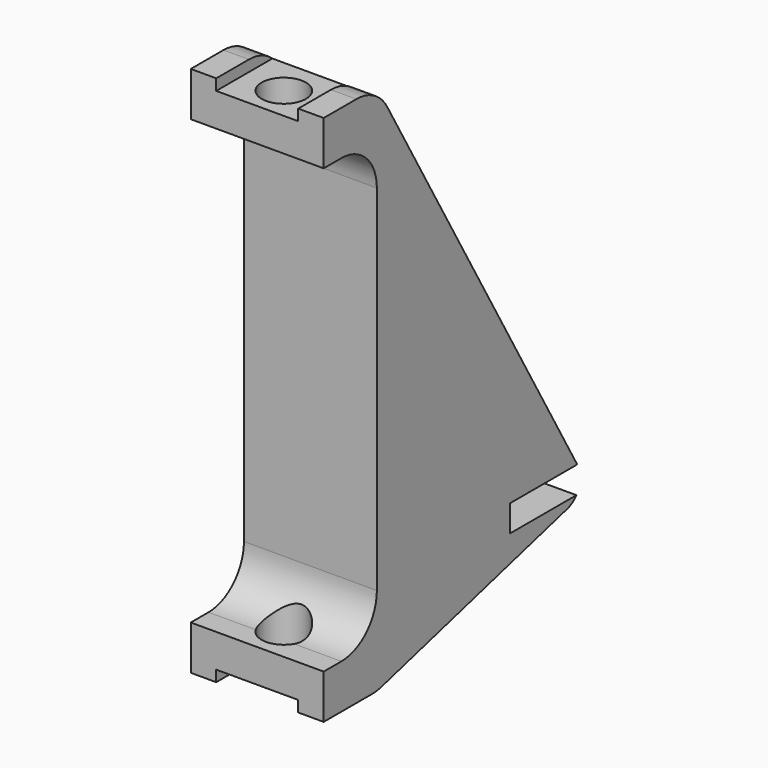
from build123d import *

# Parameters (mm, degrees)
F1_DEPTH      = 19.05
F3_D          = 6.35
F4_W          = 1.5875
F4_H          = 35.8877405588
F5_DEPTH      = 25.4
F5_DEPTH_BACK = 1.27
F6_R          = 15.875
F7_DEPTH      = 3.81
F8_W          = 11.7475
F8_H          = 3.175
F9_DEPTH      = 25.4
F10_W         = 11.7475
F10_H         = 3.175
F11_DEPTH     = 25.4


with BuildPart() as f1:
    # F0 (on Right) → F1 (new body)
    with BuildSketch(Plane.YZ):
        with BuildLine():
            ThreePointArc((-3.9967504682, -1.0709260603), (-1.8851834207, 0.7808685404), (-2.0688702794, 3.5833884382))
            Line((-2.0688702794, 3.5833884382), (-36.2669128953, 62.8161357684))
            ThreePointArc((-36.2669128953, 62.8161357684), (-38.5911742094, 65.1403970824), (-41.7661742094, 65.9911357684))
            Line((-41.7661742094, 65.9911357684), (-47.625, 65.9911357684))
            Line((-47.625, 65.9911357684), (-47.625, 59.6411357684))
            Line((-47.625, 59.6411357684), (-44.45, 59.6411357684))
            ThreePointArc((-44.45, 59.6411357684), (-39.9598719395, 57.7812638289), (-38.1, 53.2911357684))
            Line((-38.1, 53.2911357684), (-38.1, 2.4911357684))
            ThreePointArc((-38.1, 2.4911357684), (-39.9598719395, -1.9989922922), (-44.45, -3.8588642316))
            Line((-44.45, -3.8588642316), (-47.625, -3.8588642316))
            Line((-47.625, -3.8588642316), (-47.625, -10.2088642316))
            Line((-47.625, -10.2088642316), (-38.9359933597, -10.2088642316))
            ThreePointArc((-38.9359933597, -10.2088642316), (-38.1071520391, -10.1545391013), (-37.2924924233, -9.9924932286))
            Line((-37.2924924233, -9.9924932286), (-3.9967504682, -1.0709260603))
        make_face()
    extrude(amount=F1_DEPTH)

    # F3 (through all)
    with Locations(Plane(origin=(0, 0, -10.2088642316), x_dir=(1, 0, 0), z_dir=(0, 0, -1))):
        with Locations((9.525, 42.8625)):
            Hole(F3_D / 2)

    # F4 (on Top) → F5 (cut, two sides)
    with BuildSketch(Plane.XY) as f5_sk:
        with Locations((9.525, 0)):
            Rectangle(F4_W, F4_H)
    extrude(amount=-F5_DEPTH, mode=Mode.SUBTRACT)
    extrude(f5_sk.sketch, amount=F5_DEPTH_BACK, mode=Mode.SUBTRACT)

    # F6 (on Top) → F7 (cut)
    with BuildSketch(Plane.XY):
        with Locations((9.525, -1.5875)):
            Circle(F6_R)
    extrude(amount=F7_DEPTH, mode=Mode.SUBTRACT)

    # F8 (on face) → F9 (cut)
    with BuildSketch(Plane.XZ.offset(47.625)):
        with Locations((9.525, 65.9911357684)):
            Rectangle(F8_W, F8_H)
    extrude(amount=-F9_DEPTH, mode=Mode.SUBTRACT)

    # F10 (on face) → F11 (cut)
    with BuildSketch(Plane.XZ.offset(47.625)):
        with Locations((9.525, -10.2088642316)):
            Rectangle(F10_W, F10_H)
    extrude(amount=-F11_DEPTH, mode=Mode.SUBTRACT)


solid = f1.part
